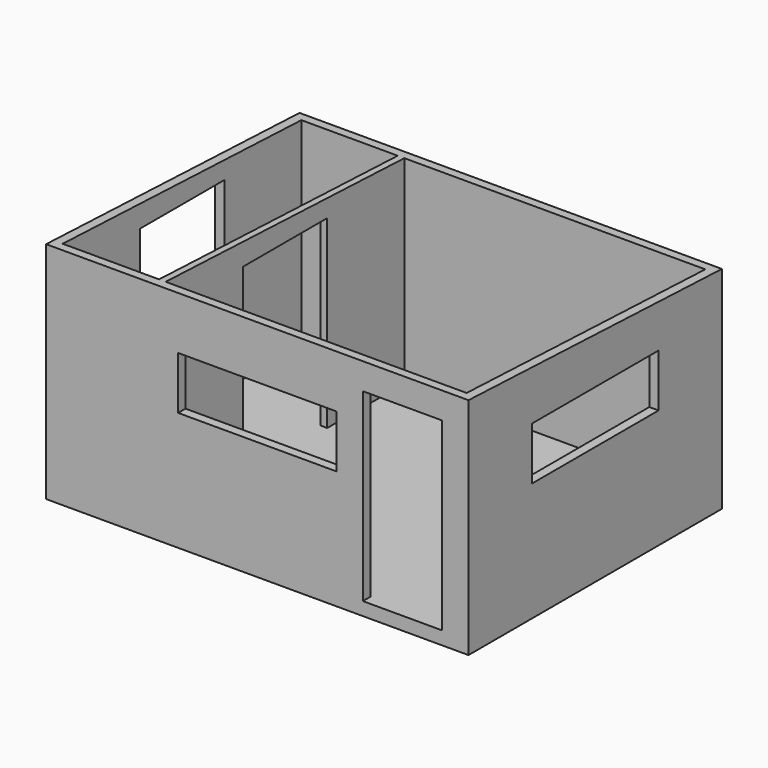
from build123d import *

# Parameters (mm, degrees)
F0_W      = 101.6
F0_H      = 76.2
F1_DEPTH  = 3.175
F2_W      = 101.6
F2_H      = 76.2
F2_W_2    = 97.155
F2_H_2    = 71.755
F3_DEPTH  = 50.8
F4_W      = 1.5875
F4_H      = 71.755
F5_DEPTH  = 50.8
F6_W      = 19.05
F6_H      = 44.45
F6_W_2    = 38.1
F6_H_2    = 12.7
F7_DEPTH  = 25.4
F8_W      = 38.1
F8_H      = 12.7
F9_DEPTH  = 25.4
F11_DEPTH = 101.6
F12_W     = 25.4
F12_H     = 44.45
F13_DEPTH = 76.2


with BuildPart() as f1:
    # F0 (on Top) → F1 (new body)
    with BuildSketch(Plane.XY):
        Rectangle(F0_W, F0_H)
    extrude(amount=F1_DEPTH)

    # F2 (on face) → F3 (join)
    with BuildSketch(Plane.XY.offset(3.175)):
        Rectangle(F2_W, F2_H)
        Rectangle(F2_W_2, F2_H_2, mode=Mode.SUBTRACT)
    extrude(amount=F3_DEPTH)

    # F4 (on face) → F5 (join)
    with BuildSketch(Plane.XY.offset(3.175)):
        with Locations((-24.60625, 0)):
            Rectangle(F4_W, F4_H)
    extrude(amount=F5_DEPTH)

    # F6 (on face) → F7 (cut)
    with BuildSketch(Plane.XZ.offset(38.1)):
        with Locations((34.925, 25.4)):
            Rectangle(F6_W, F6_H)
        with Locations((0, 34.925)):
            Rectangle(F6_W_2, F6_H_2)
    extrude(amount=-F7_DEPTH, mode=Mode.SUBTRACT)

    # F8 (on face) → F9 (cut)
    with BuildSketch(Plane.YZ.offset(50.8)):
        with Locations((0, 34.925)):
            Rectangle(F8_W, F8_H)
    extrude(amount=-F9_DEPTH, mode=Mode.SUBTRACT)

    # F10 (on face) → F11 (cut, through all)
    with BuildSketch(Plane.YZ.offset(50.8)):
        Polygon((38.1, 53.975), (-38.1, 53.975), (38.1, 50.8), align=None)
    extrude(amount=-F11_DEPTH, mode=Mode.SUBTRACT)

    # F12 (on face) → F13 (cut)
    with BuildSketch(Plane(origin=(-50.8, 0, 0), x_dir=(0, -1, 0), z_dir=(-1, 0, 0))):
        with Locations((0, 25.4)):
            Rectangle(F12_W, F12_H)
    extrude(amount=-F13_DEPTH, mode=Mode.SUBTRACT)


solid = f1.part
